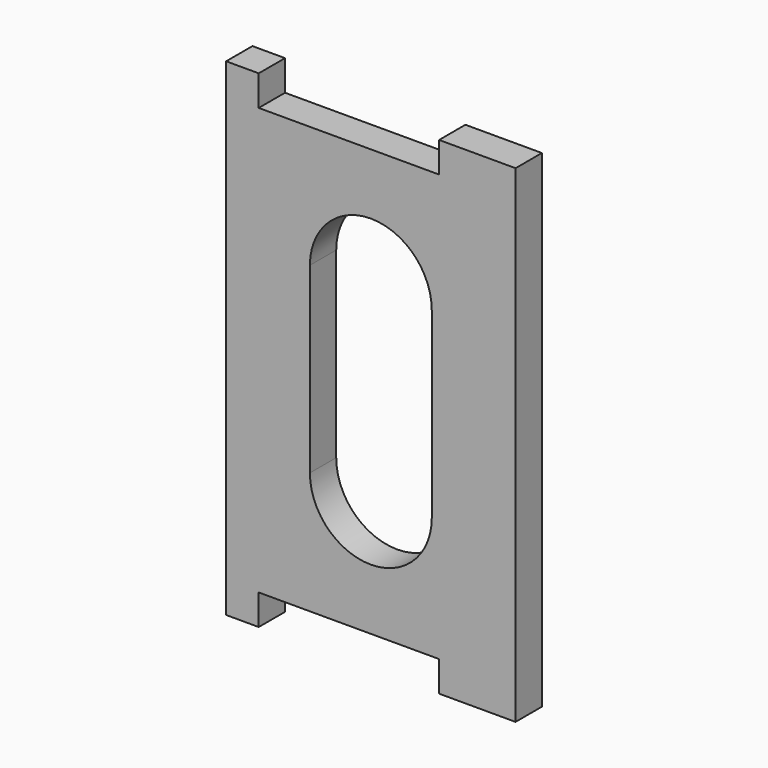
from build123d import *

# Parameters (mm, degrees)
F1_DEPTH = 3.429


with BuildPart() as f1:
    # F0 (on Front) → F1 (new body)
    with BuildSketch(Plane.XZ):
        Polygon((489.076416, 17.613757), (497.045666, 17.613757), (497.045666, 68.413757), (489.076416, 68.413757), (489.076416, 65.238757), (470.280416, 65.238757), (470.280416, 68.413757), (466.883166, 68.413757), (466.883166, 17.613757), (470.280416, 17.613757), (470.280416, 20.788757), (489.076416, 20.788757), align=None)
        with BuildLine():
            ThreePointArc((488.314416, 33.488757), (481.964416, 27.138757), (475.614416, 33.488757))
            Line((475.614416, 33.488757), (475.614416, 52.538757))
            ThreePointArc((475.614416, 52.538757), (481.964416, 58.888757), (488.314416, 52.538757))
            Line((488.314416, 52.538757), (488.314416, 33.488757))
        make_face(mode=Mode.SUBTRACT)
    extrude(amount=F1_DEPTH)


solid = f1.part
